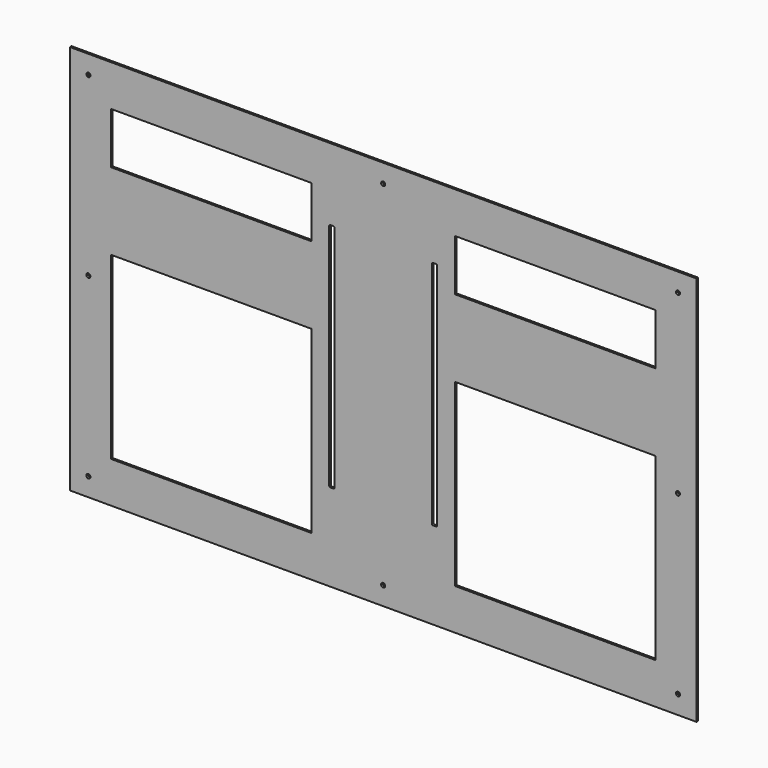
from build123d import *

# Parameters (mm, degrees)
F0_W     = 610
F0_H     = 380
F0_R     = 2
F0_W_2   = 195
F0_H_2   = 50
F1_DEPTH = 2


with BuildPart() as f1:
    # F0 (on Front) → F1 (new body)
    with BuildSketch(Plane.XZ):
        with Locations((20.357143, 0)):
            Rectangle(F0_W, F0_H)
        with Locations((-266.642857, -172)):
            Circle(F0_R, mode=Mode.SUBTRACT)
        Polygon((-49.642857, -150), (-244.642857, -150), (-244.642857, -40), (-244.642857, 25), (-49.642857, 25), (-49.642857, -40), align=None, mode=Mode.SUBTRACT)
        with Locations((20.357143, -172)):
            Circle(F0_R, mode=Mode.SUBTRACT)
        with Locations((307.357143, -172)):
            Circle(F0_R, mode=Mode.SUBTRACT)
        Polygon((90.357143, -150), (90.357143, -40), (90.357143, 25), (285.357143, 25), (285.357143, -40), (285.357143, -150), align=None, mode=Mode.SUBTRACT)
        with Locations((-266.642857, 0)):
            Circle(F0_R, mode=Mode.SUBTRACT)
        with BuildLine():
            ThreePointArc((-32.142857, 119), (-31.849964, 119.707107), (-31.142857, 120))
            Line((-31.142857, 120), (-28.142857, 120))
            ThreePointArc((-28.142857, 120), (-27.43575, 119.707107), (-27.142857, 119))
            Line((-27.142857, 119), (-27.142857, -104))
            ThreePointArc((-27.142857, -104), (-27.43575, -104.707107), (-28.142857, -105))
            Line((-28.142857, -105), (-31.142857, -105))
            ThreePointArc((-31.142857, -105), (-31.849964, -104.707107), (-32.142857, -104))
            Line((-32.142857, -104), (-32.142857, 119))
        make_face(mode=Mode.SUBTRACT)
        with Locations((-147.142857, 125)):
            Rectangle(F0_W_2, F0_H_2, mode=Mode.SUBTRACT)
        with Locations((-266.642857, 172)):
            Circle(F0_R, mode=Mode.SUBTRACT)
        with BuildLine():
            ThreePointArc((67.857143, 119), (68.150036, 119.707107), (68.857143, 120))
            Line((68.857143, 120), (71.857143, 120))
            ThreePointArc((71.857143, 120), (72.56425, 119.707107), (72.857143, 119))
            Line((72.857143, 119), (72.857143, -104))
            ThreePointArc((72.857143, -104), (72.56425, -104.707107), (71.857143, -105))
            Line((71.857143, -105), (68.857143, -105))
            ThreePointArc((68.857143, -105), (68.150036, -104.707107), (67.857143, -104))
            Line((67.857143, -104), (67.857143, 119))
        make_face(mode=Mode.SUBTRACT)
        with Locations((307.357143, 0)):
            Circle(F0_R, mode=Mode.SUBTRACT)
        with Locations((20.357143, 172)):
            Circle(F0_R, mode=Mode.SUBTRACT)
        with Locations((187.857143, 125)):
            Rectangle(F0_W_2, F0_H_2, mode=Mode.SUBTRACT)
        with Locations((307.357143, 172)):
            Circle(F0_R, mode=Mode.SUBTRACT)
    extrude(amount=F1_DEPTH)


solid = f1.part
